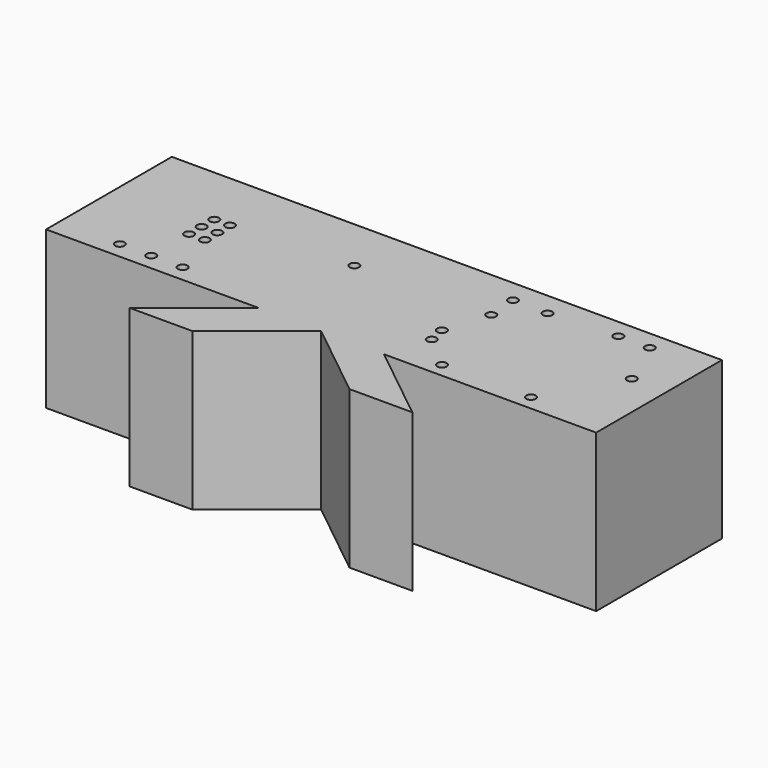
from build123d import *

# Parameters (mm, degrees)
F2_W     = 44.45
F2_H     = 12.7
F3_DEPTH = 12.7
F4_R     = 0.381
F5_DEPTH = 12.701
F7_DEPTH = 12.7


with BuildPart() as f3:
    # F2 (on face) → F3 (new body)
    with BuildSketch(Plane.XY):
        with Locations((-0.8636, -0.9906)):
            Rectangle(F2_W, F2_H)
    extrude(amount=F3_DEPTH)

    # F4 (on face) → F5 (cut, through all)
    with BuildSketch(Plane.XY.offset(12.7)):
        with Locations((-18.20926, -5.9944)):
            Circle(F4_R)
        with Locations((-15.66926, -5.9944)):
            Circle(F4_R)
        with Locations((-13.12926, -5.9944)):
            Circle(F4_R)
        with Locations((-14.3764, -2.1971)):
            Circle(F4_R)
        with Locations((-15.6464, -2.1971)):
            Circle(F4_R)
        with Locations((-15.6464, -0.9271)):
            Circle(F4_R)
        with Locations((-14.3764, -0.9271)):
            Circle(F4_R)
        with Locations((-14.3764, 0.3429)):
            Circle(F4_R)
        with Locations((-15.6464, 0.3429)):
            Circle(F4_R)
        with Locations((-4.81076, 0.94742)):
            Circle(F4_R)
        with Locations((5.30352, -3.87604)):
            Circle(F4_R)
        with Locations((5.01904, -2.49936)):
            Circle(F4_R)
        with Locations((6.13918, 1.08712)):
            Circle(F4_R)
        with Locations((5.95884, 3.50774)):
            Circle(F4_R)
        with Locations((8.78586, 3.46964)):
            Circle(F4_R)
        with Locations((18.51914, -0.19304)):
            Circle(F4_R)
        with Locations((16.76273, 3.82016)):
            Circle(F4_R)
        with Locations((14.224, 3.82016)):
            Circle(F4_R)
        with Locations((7.97306, -6.18236)):
            Circle(F4_R)
        with Locations((15.12062, -6.12648)):
            Circle(F4_R)
    extrude(amount=-F5_DEPTH, mode=Mode.SUBTRACT)

    # F6 (on face) → F7 (join, through all)
    with BuildSketch(Plane.XY.offset(12.7)):
        Polygon((-7.2136, -12.4206), (-0.8636, -7.3406), (-5.9436, -7.3406), (-12.2936, -12.4206), align=None)
        Polygon((10.5664, -12.4206), (4.2164, -7.3406), (-0.8636, -7.3406), (5.4864, -12.4206), align=None)
    extrude(amount=-F7_DEPTH)


solid = f3.part
